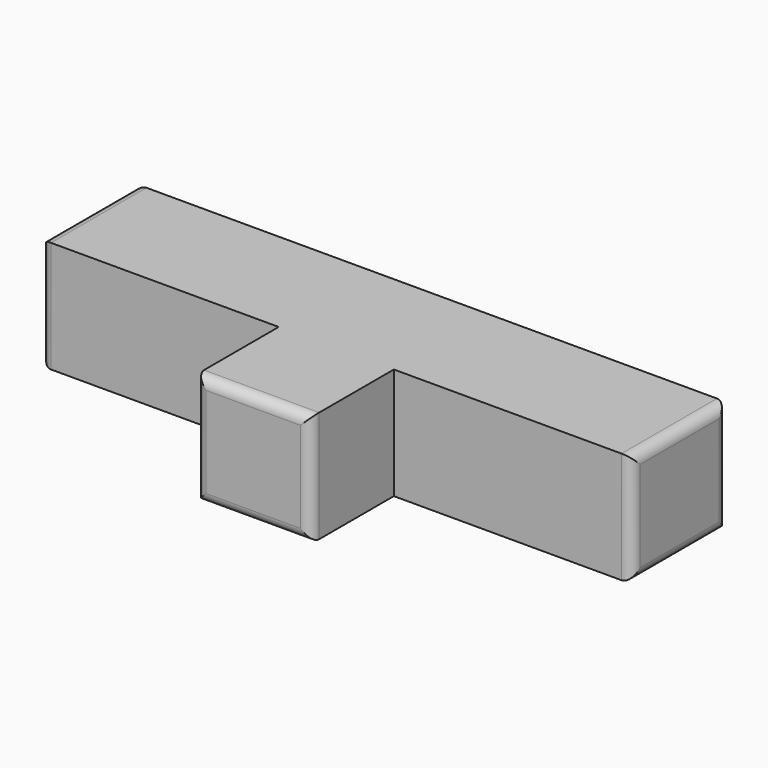
from build123d import *

# Parameters (mm, degrees)
F0_W     = 57
F0_H     = 10.75
F1_DEPTH = 11.5
F2_W     = 11.1
F2_H     = 10.75
F3_DEPTH = 10
F4_R     = 1


with BuildPart() as f1:
    # F0 (on Front) → F1 (new body)
    with BuildSketch(Plane.XZ):
        with Locations((0, 0.0343695283)):
            Rectangle(F0_W, F0_H)
    extrude(amount=F1_DEPTH)

    # F2 (on face) → F3 (join)
    with BuildSketch(Plane.XZ.offset(11.5)):
        with Locations((0, 0.0343695283)):
            Rectangle(F2_W, F2_H)
    extrude(amount=F3_DEPTH)

    # F4
    f4_edges = [f1.edges().sort_by_distance(p)[0] for p in [
        (5.55, -21.5, 0.03437),
        (0, -21.5, 5.40937),
        (-5.55, -21.5, 0.03437),
        (0, -21.5, -5.34063),
        (28.5, -11.5, 0.03437),
        (28.5, -5.75, 5.40937),
        (28.5, -5.75, -5.34063),
        (28.5, 0, 0.03437),
        (-28.5, -5.75, 5.40937),
        (-28.5, -11.5, 0.03437),
        (-28.5, -5.75, -5.34063),
        (-28.5, 0, 0.03437),
    ]]
    fillet(f4_edges, radius=F4_R)


solid = f1.part
